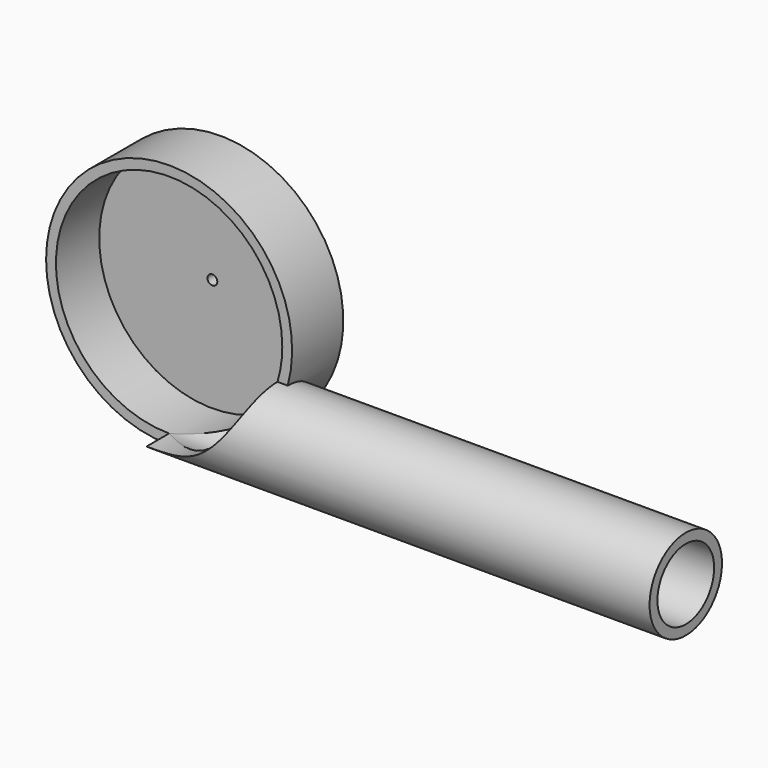
from build123d import *

# Parameters (mm, degrees)
F0_R      = 25
F0_R_2    = 1
F1_DEPTH  = 13
F2_R      = 23
F3_DEPTH  = 11
F4_R      = 9.2
F4_R_2    = 7.2
F5_DEPTH  = 105
F6_DEPTH  = 50.8
F7_DEPTH  = 25.4
F8_R      = 23
F9_DEPTH  = 25.4
F11_ANGLE = 180


with BuildPart() as f1:
    # F0 (on Front) → F1 (new body)
    with BuildSketch(Plane.XZ):
        Circle(F0_R)
        Circle(F0_R_2, mode=Mode.SUBTRACT)
    extrude(amount=F1_DEPTH)

    # F2 (on face) → F3 (cut)
    with BuildSketch(Plane(origin=(0, 0, 0), x_dir=(-1, 0, 0), z_dir=(0, 1, 0))):
        Circle(F2_R)
    extrude(amount=-F3_DEPTH, mode=Mode.SUBTRACT)

    # F4 (on Right) → F5 (join)
    with BuildSketch(Plane.YZ):
        with Locations((0, -15.8)):
            Circle(F4_R)
        with Locations((0, -15.8)):
            Circle(F4_R_2, mode=Mode.SUBTRACT)
    extrude(amount=-F5_DEPTH)

    # F4 (on Right) → F6 (cut)
    with BuildSketch(Plane.YZ):
        with Locations((0, -15.8)):
            Circle(F4_R_2)
    extrude(amount=-F6_DEPTH, mode=Mode.SUBTRACT)

    # F0 (on Front) → F7 (cut)
    with BuildSketch(Plane.XZ):
        Circle(F0_R_2)
    extrude(amount=-F7_DEPTH, mode=Mode.SUBTRACT)

    # F8 (on face) → F9 (cut)
    with BuildSketch(Plane(origin=(0, -11, 0), x_dir=(-1, 0, 0), z_dir=(0, 1, 0))):
        Circle(F8_R)
    extrude(amount=F9_DEPTH, mode=Mode.SUBTRACT)


with BuildPart() as f1_1:
    # F11: moved
    add(f1.part.rotate(Axis((0, 0, 3.9728134871), (0, 0, -1)), F11_ANGLE))


solid = f1_1.part
